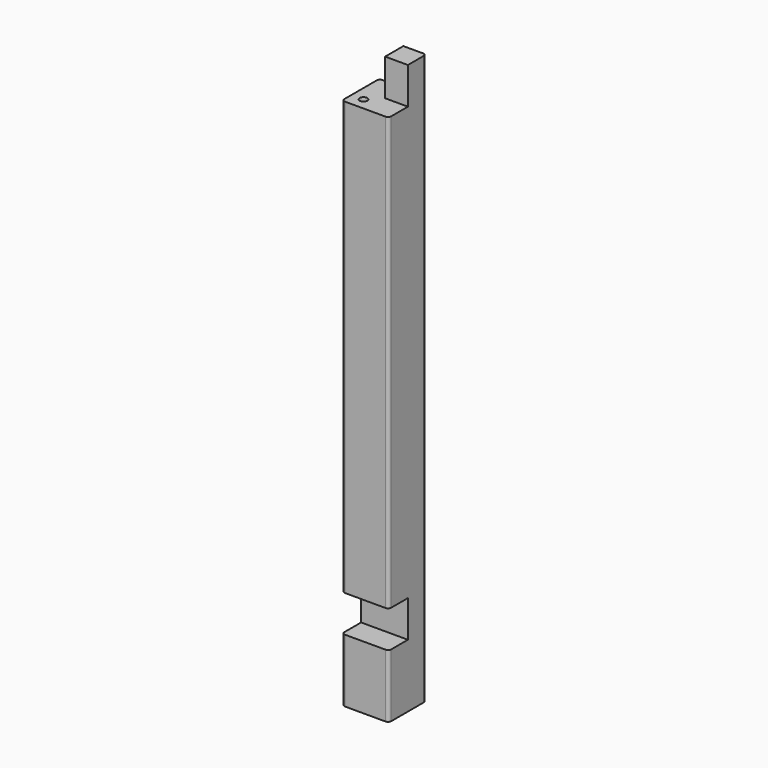
from build123d import *

# Parameters (mm, degrees)
F0_W     = 74
F0_H     = 74
F1_DEPTH = 900
F2_W     = 74
F2_H     = 58
F4_DEPTH = 38
F3_W     = 74
F3_H     = 58
F5_DEPTH = 38
F7_D     = 12
F7_DEPTH = 40
F7_TIP   = 3.6051637142
F8_W     = 74
F8_H     = 58
F9_DEPTH = 38
F10_R    = 5


with BuildPart() as f1:
    # F0 (on Top) → F1 (new body)
    with BuildSketch(Plane.XY):
        Rectangle(F0_W, F0_H)
    extrude(amount=-F1_DEPTH)

    # F2 (on face) → F4 (cut)
    with BuildSketch(Plane.XZ.offset(37)):
        with Locations((0, -29)):
            Rectangle(F2_W, F2_H)
    extrude(amount=-F4_DEPTH, mode=Mode.SUBTRACT)

    # F3 (on face) → F5 (cut)
    with BuildSketch(Plane(origin=(-37, 0, 0), x_dir=(0, -1, 0), z_dir=(-1, 0, 0))):
        with Locations((0, -29)):
            Rectangle(F3_W, F3_H)
    extrude(amount=-F5_DEPTH, mode=Mode.SUBTRACT)

    # F7
    with Locations(Plane.XY.offset(-58)):
        with Locations((-18, -18)):
            Hole(F7_D / 2, depth=F7_DEPTH)
            with Locations((0, 0, -(F7_DEPTH + F7_TIP / 2))):  # 118° drill point
                Cone(0, F7_D / 2, F7_TIP, mode=Mode.SUBTRACT)

    # F8 (on face) → F9 (cut)
    with BuildSketch(Plane.XZ.offset(37)):
        with Locations((0, -771)):
            Rectangle(F8_W, F8_H)
    extrude(amount=-F9_DEPTH, mode=Mode.SUBTRACT)

    # F10
    f10_edges = [f1.edges().sort_by_distance(p)[0] for p in [
        (-37, -37, -850),
        (-37, -37, -400),
        (-37, 37, -479),
        (37, -37, -850),
        (37, -37, -400),
        (37, 37, -450),
    ]]
    fillet(f10_edges, radius=F10_R)


solid = f1.part
